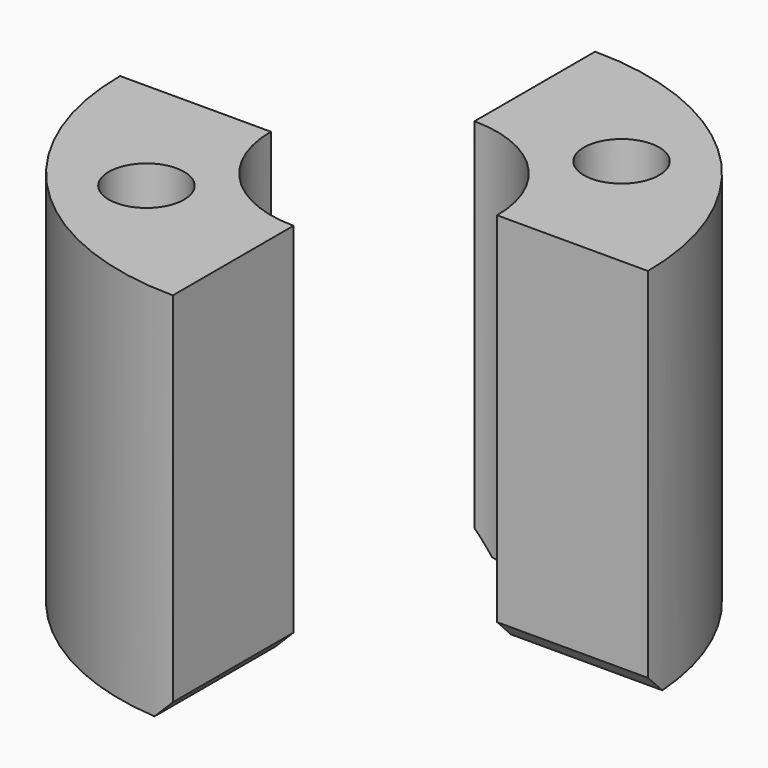
from build123d import *

# Parameters (mm, degrees)
CYLINDER1769_R     = 1
CYLINDER1769_DEPTH = 20
CYLINDER1770_R     = 1
CYLINDER1770_DEPTH = 20
CYLINDER1774_R     = 2
CYLINDER1774_DEPTH = 2
CYLINDER1771_R     = 2
CYLINDER1771_DEPTH = 2
CYLINDER1772_R     = 3
CYLINDER1772_DEPTH = 5
CYLINDER1775_R     = 3
CYLINDER1775_DEPTH = 5
BOX414_W           = 10
BOX414_H           = 20
BOX414_DEPTH       = 10
BOX413_W           = 10
BOX413_H           = 20
BOX413_DEPTH       = 10
TUBE054_R          = 7
TUBE054_R_2        = 1
TUBE054_DEPTH      = 10
CHAMFER014_SIZE    = 0.5


with BuildPart() as obj1:
    # Cylinder1769 → Cylinder1769 (new body)
    with BuildSketch(Plane(origin=(-3.5, -3.5, 0), x_dir=(1, 0, 0), z_dir=(0, 0, 1))):
        Circle(CYLINDER1769_R)
    extrude(amount=CYLINDER1769_DEPTH)


with BuildPart() as compound824:
    # Cylinder1770 → Cylinder1770 (new body)
    with BuildSketch(Plane(origin=(3.5, 3.5, 0), x_dir=(1, 0, 0), z_dir=(0, 0, 1))):
        Circle(CYLINDER1770_R)
    extrude(amount=CYLINDER1770_DEPTH)

    # Compound824: union obj1
    add(obj1.part)


with BuildPart() as obj2:
    # Cylinder1774 → Cylinder1774 (new body)
    with BuildSketch(Plane(origin=(-3.5, -3.5, 0), x_dir=(1, 0, 0), z_dir=(0, 0, 1))):
        Circle(CYLINDER1774_R)
    extrude(amount=CYLINDER1774_DEPTH)


with BuildPart() as compound825:
    # Cylinder1771 → Cylinder1771 (new body)
    with BuildSketch(Plane(origin=(3.5, 3.5, 0), x_dir=(1, 0, 0), z_dir=(0, 0, 1))):
        Circle(CYLINDER1771_R)
    extrude(amount=CYLINDER1771_DEPTH)

    # Compound825: union obj2
    add(obj2.part)


with BuildPart() as obj3:
    # Cylinder1772 → Cylinder1772 (new body)
    with BuildSketch(Plane.XY.offset(5)):
        Circle(CYLINDER1772_R)
    extrude(amount=CYLINDER1772_DEPTH)


with BuildPart() as obj4:
    # Cylinder1775 → Cylinder1775 (new body)
    with BuildSketch(Plane.XY):
        Circle(CYLINDER1775_R)
    extrude(amount=CYLINDER1775_DEPTH)


with BuildPart() as krychle414:
    # Box414 → Box414 (new body)
    with BuildSketch(Plane(origin=(0, 0, 0), x_dir=(0, 1, 0), z_dir=(0, 0, 1))):
        with Locations((5, 10)):
            Rectangle(BOX414_W, BOX414_H)
    extrude(amount=BOX414_DEPTH)


with BuildPart() as compound823:
    # Box413 → Box413 (new body)
    with BuildSketch(Plane(origin=(0, 0, 0), x_dir=(0, -1, 0), z_dir=(0, 0, 1))):
        with Locations((5, 10)):
            Rectangle(BOX413_W, BOX413_H)
    extrude(amount=BOX413_DEPTH)

    # Compound823: union Krychle414
    add(krychle414.part)


with BuildPart() as chamfer014:
    # Tube054 → Tube054 (new body)
    with BuildSketch(Plane.XY):
        Circle(TUBE054_R)
        Circle(TUBE054_R_2, mode=Mode.SUBTRACT)
    extrude(amount=TUBE054_DEPTH)

    # Cut650: cut Compound823
    add(compound823.part, mode=Mode.SUBTRACT)

    # Cut649: cut obj4
    add(obj4.part, mode=Mode.SUBTRACT)

    # Cut652: cut obj3
    add(obj3.part, mode=Mode.SUBTRACT)

    # Cut651: cut Compound825
    add(compound825.part, mode=Mode.SUBTRACT)

    # Cut648: cut Compound824
    add(compound824.part, mode=Mode.SUBTRACT)

    # Chamfer014
    chamfer014_edges = [chamfer014.edges().sort_by_distance(p)[0] for p in [
        (0, 5, 0),
        (5, 0, 0),
        (0, -5, 0),
        (-5, 0, 0),
    ]]
    chamfer(chamfer014_edges, length=CHAMFER014_SIZE)


solid = chamfer014.part
